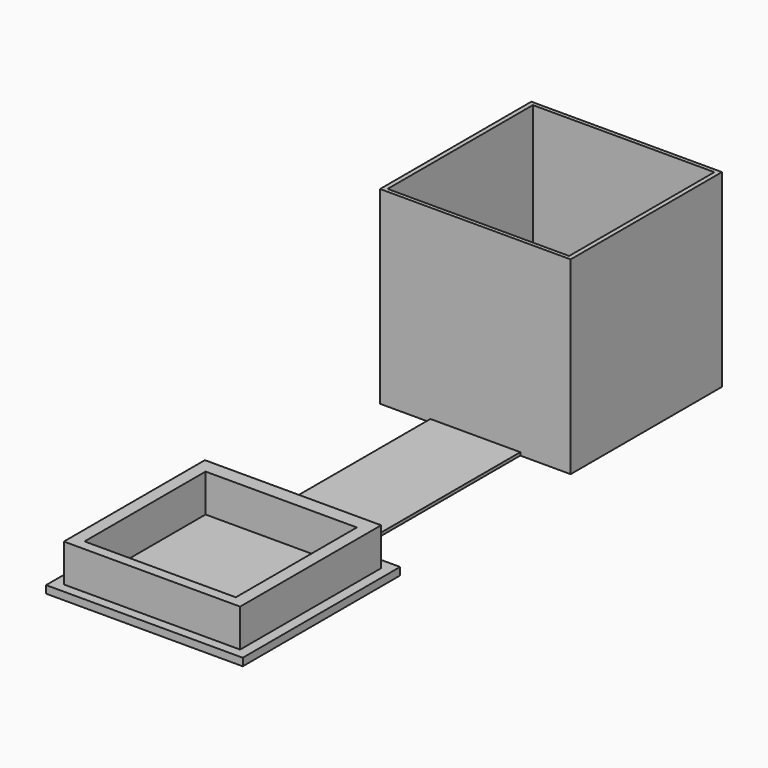
from build123d import *

# Parameters (mm, degrees)
F0_W      = 25.195038
F0_H      = 25
F2_DEPTH  = 25
F3_W      = 24
F3_H      = 24
F4_DEPTH  = 23
F1_W      = 11.88971
F1_H      = 34.151009
F5_DEPTH  = 0.4
F6_W      = 26
F6_H      = 26
F7_DEPTH  = 1
F8_W      = 23.3
F8_H      = 23.3
F9_DEPTH  = 5
F10_W     = 20
F10_H     = 20
F11_DEPTH = 5
F12_R     = 3.001446
F12_R_2   = 3.242055
F13_DEPTH = 1


with BuildPart() as f2:
    # F0 (on Top) → F2 (new body)
    with BuildSketch(Plane.XY):
        Rectangle(F0_W, F0_H)
    extrude(amount=F2_DEPTH)

    # F3 (on face) → F4 (cut)
    with BuildSketch(Plane.XY.offset(25)):
        Rectangle(F3_W, F3_H)
    extrude(amount=-F4_DEPTH, mode=Mode.SUBTRACT)


with BuildPart() as f5:
    # F1 (on Top) → F5 (new body)
    with BuildSketch(Plane.XY):
        with Locations((0, -29.528086)):
            Rectangle(F1_W, F1_H)
    extrude(amount=F5_DEPTH)

    # F6 (on Top) → F7 (join)
    with BuildSketch(Plane.XY):
        with Locations((0, -54.186432)):
            Rectangle(F6_W, F6_H)
    extrude(amount=F7_DEPTH)

    # F8 (on face) → F9 (join)
    with BuildSketch(Plane.XY.offset(1)):
        with Locations((0, -54.281339)):
            Rectangle(F8_W, F8_H)
    extrude(amount=F9_DEPTH)

    # F10 (on face) → F11 (cut)
    with BuildSketch(Plane.XY.offset(6)):
        with Locations((0, -54.580884)):
            Rectangle(F10_W, F10_H)
    extrude(amount=-F11_DEPTH, mode=Mode.SUBTRACT)

    # F12 (on face) → F13 (join)
    with BuildSketch(Plane(origin=(0, 0, 0), x_dir=(1, 0, 0), z_dir=(0, 0, -1))):
        with Locations((0, 48.479673)):
            Circle(F12_R)
        with Locations((0, 58.783803)):
            Circle(F12_R_2)
    extrude(amount=F13_DEPTH)


solid = Compound([f2.part, f5.part])
